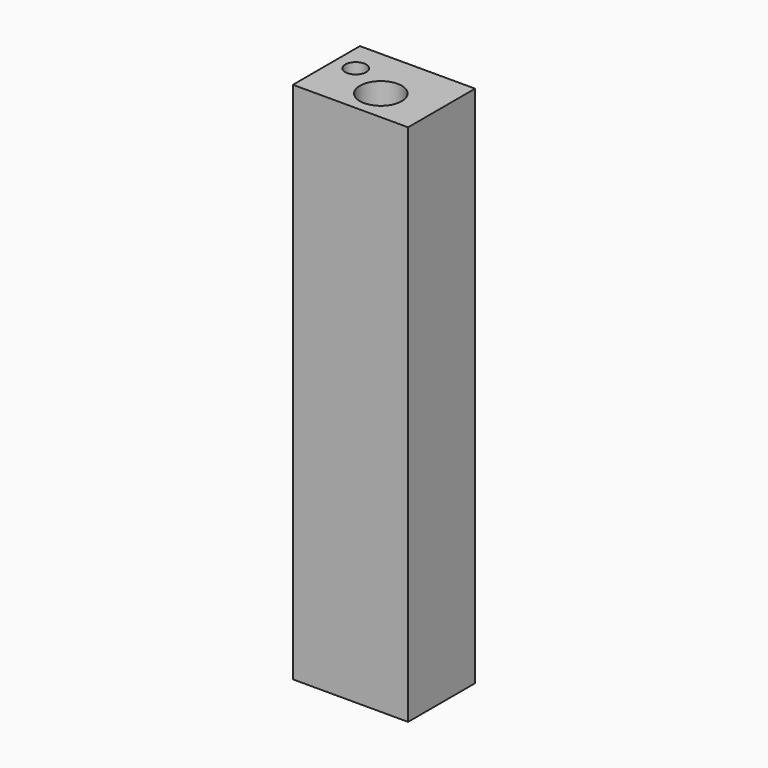
from build123d import *

# Parameters (mm, degrees)
F0_R     = 1
F1_DEPTH = 25


with BuildPart() as f1:
    # F0 (on Top) → F1 (new body)
    with BuildSketch(Plane.XY):
        with BuildLine():
            ThreePointArc((-52.182839, 36.111943), (-52.682839, 36.611943), (-53.182839, 36.111943))
            ThreePointArc((-53.182839, 36.111943), (-52.682839, 35.611943), (-52.182839, 36.111943))
        make_face()
        Polygon((-52.682839, 37.611943), (-53.682839, 37.611943), (-53.682839, 36.111943), (-53.682839, 33.611943), (-50.682839, 33.611943), (-48.182839, 33.611943), (-48.182839, 35.111943), (-48.182839, 35.611943), (-49.337539, 37.611943), align=None)
        with Locations((-50.682839, 35.111943)):
            Circle(F0_R, mode=Mode.SUBTRACT)
        with BuildLine():
            ThreePointArc((-52.182839, 36.111943), (-52.682839, 35.611943), (-53.182839, 36.111943))
            ThreePointArc((-53.182839, 36.111943), (-52.682839, 36.611943), (-52.182839, 36.111943))
        make_face(mode=Mode.SUBTRACT)
        Polygon((-48.182839, 37.611943), (-49.337539, 37.611943), (-48.182839, 35.611943), align=None)
    extrude(amount=F1_DEPTH)


solid = f1.part
